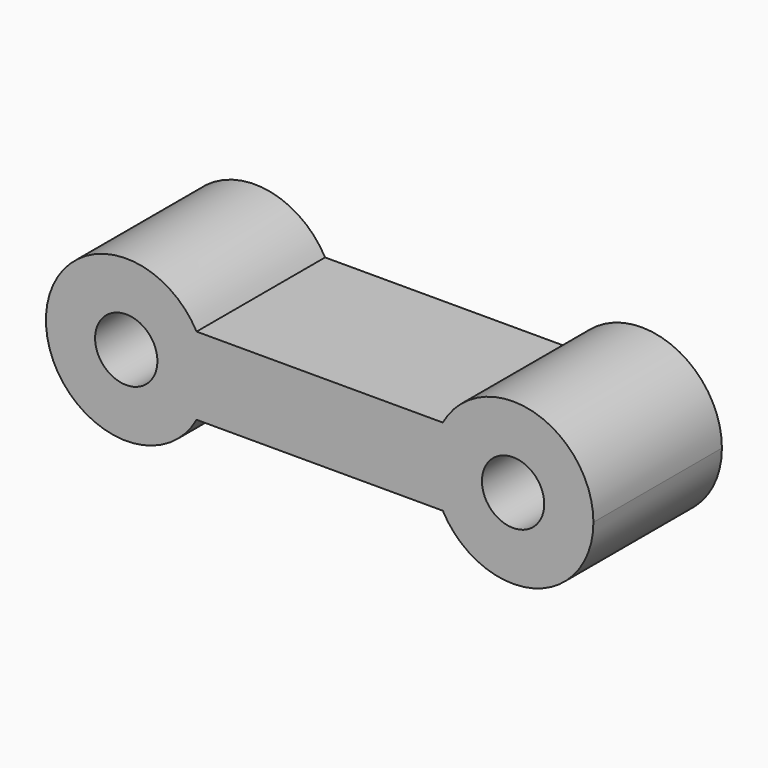
from build123d import *

# Parameters (mm, degrees)
F0_R     = 9.855084
F1_DEPTH = 50.8


with BuildPart() as f1:
    # F0 (on Front) → F1 (new body)
    with BuildSketch(Plane.XZ):
        with BuildLine():
            ThreePointArc((-22.239753, -12.270021), (6.33523, -24.597253), (25.4, 0))
            ThreePointArc((25.4, 0), (6.33523, 24.597253), (-22.239753, 12.270021))
            ThreePointArc((-22.239753, 12.270021), (-25.4, 0), (-22.239753, -12.270021))
        make_face()
        Circle(F0_R, mode=Mode.SUBTRACT)
        with BuildLine():
            ThreePointArc((-96.932443, 0), (-97.73519, 6.33523), (-100.09269, 12.270021))
            ThreePointArc((-100.09269, 12.270021), (-147.732443, 0), (-100.09269, -12.270021))
            ThreePointArc((-100.09269, -12.270021), (-97.73519, -6.33523), (-96.932443, 0))
        make_face()
        with Locations((-122.332443, 0)):
            Circle(F0_R, mode=Mode.SUBTRACT)
        with BuildLine():
            ThreePointArc((-22.239753, -12.270021), (-25.4, 0), (-22.239753, 12.270021))
            Line((-22.239753, 12.270021), (-100.09269, 12.270021))
            ThreePointArc((-100.09269, 12.270021), (-97.73519, 6.33523), (-96.932443, 0))
            ThreePointArc((-96.932443, 0), (-97.73519, -6.33523), (-100.09269, -12.270021))
            Line((-100.09269, -12.270021), (-22.239753, -12.270021))
        make_face()
    extrude(amount=F1_DEPTH)


solid = f1.part
